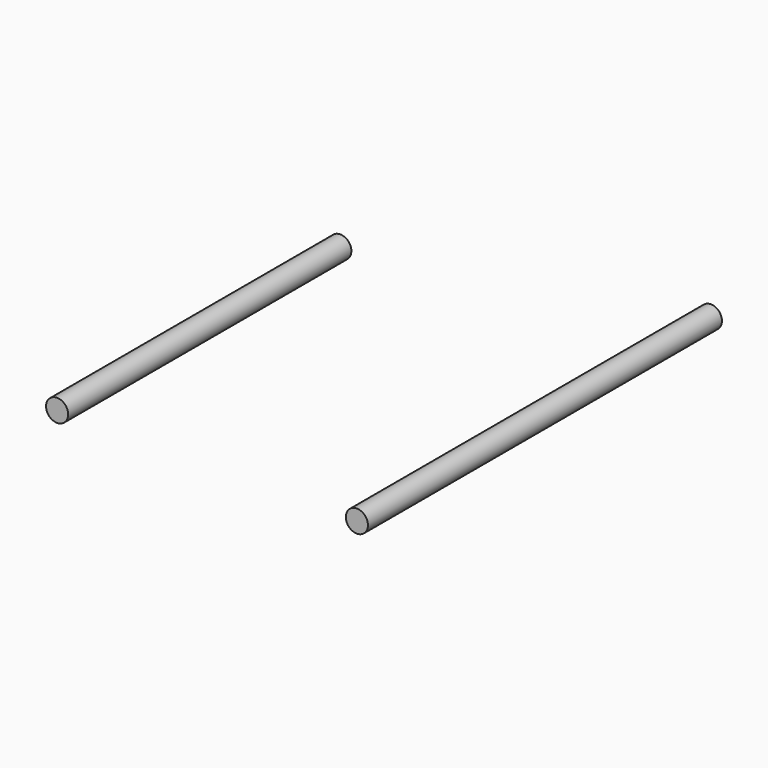
from build123d import *

# Parameters (mm, degrees)
F0_R      = 1.5875
F1_DEPTH  = 50.8
F1_FACE_R = 1.5875
F2_DEPTH  = 12.7


with BuildPart() as f1:
    # F0 (on Front) → F1 (new body)
    with BuildSketch(Plane.XZ):
        with Locations((-24.170939, 0)):
            Circle(F0_R)
        with Locations((18.8489, 0)):
            Circle(F0_R)
    extrude(amount=F1_DEPTH)

    # F1_face (on face) → F2 (join)
    with BuildSketch(Plane(origin=(18.8489, 0, 0), x_dir=(1, 0, 0), z_dir=(0, 1, 0))):
        Circle(F1_FACE_R)
    extrude(amount=F2_DEPTH)


solid = f1.part
